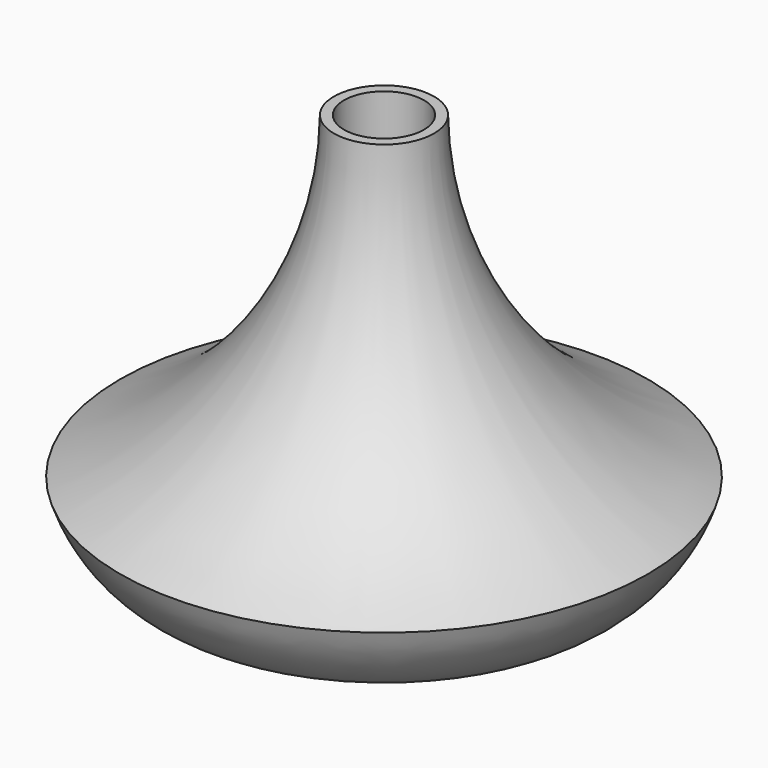
from build123d import *

# Parameters (mm, degrees)
F2_R     = 4.7625
F3_DEPTH = 9.525
F4_DEPTH = 7.62


with BuildPart() as f1:
    # F0 (on Front) → F1 (revolve)
    with BuildSketch(Plane.XZ):
        with BuildLine():
            Line((0, 50.8), (0, 0))
            Line((0, 0), (1.5875, 0))
            add(Edge.make_bspline(
                [(1.5875, 0), (3.4055108405, 1.445712693), (8.2236413921, 5.3008235661), (23.5709920987, -0.0020492519), (30.1573484378, 8.7371555385), (31.4554715347, 12.8426796426)],
                knots=[0, 0, 0, 0, 0.271576951, 0.6434810604, 1, 1, 1, 1], degree=3))
            ThreePointArc((31.4554715347, 12.8426796426), (13.0335870575, 28.0084068393), (5.969, 50.8))
            Line((5.969, 50.8), (0, 50.8))
        make_face()
    revolve(axis=Axis((0, 0, 25.4), (0, 0, 1)))

    # F2 (on face) → F3 (cut)
    with BuildSketch(Plane.XY.offset(50.8)):
        Circle(F2_R)
    extrude(amount=-F3_DEPTH, mode=Mode.SUBTRACT)

    # F4 (cut): a face of the model
    f4_faces = [f1.faces().sort_by_distance(p)[0] for p in [
        (0, 0, 0),
    ]]
    extrude(f4_faces, amount=-F4_DEPTH, mode=Mode.SUBTRACT)


solid = f1.part
